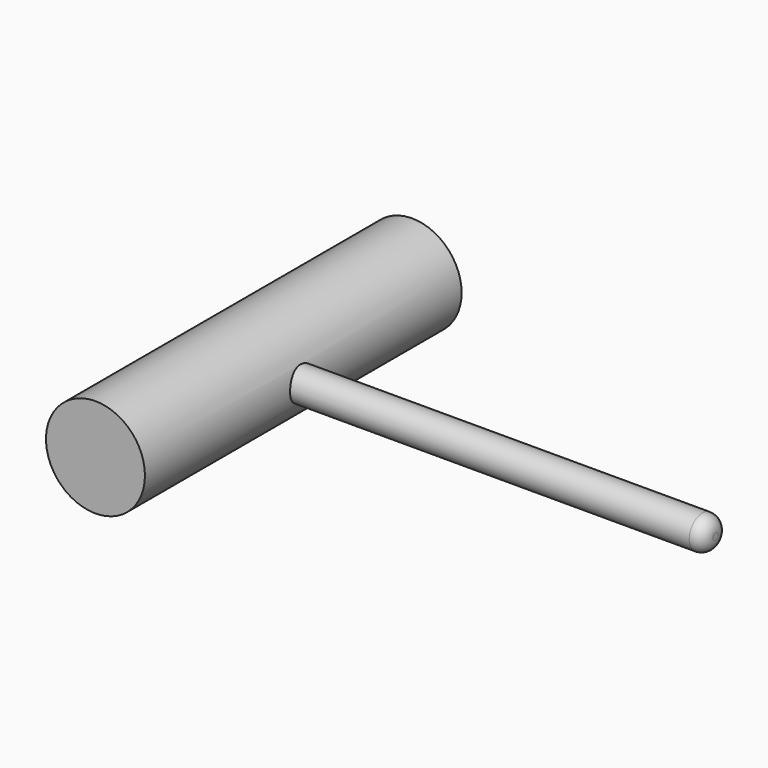
from build123d import *

# Parameters (mm, degrees)
F0_R     = 9.525
F1_DEPTH = 76.2
F2_R     = 3.175
F3_DEPTH = 88.9
F4_R     = 2.54


with BuildPart() as f1:
    # F0 (on Front) → F1 (new body)
    with BuildSketch(Plane.XZ):
        Circle(F0_R)
    extrude(amount=-F1_DEPTH)

    # F2 (on Right) → F3 (join)
    with BuildSketch(Plane.YZ):
        with Locations((38.1, 0)):
            Circle(F2_R)
    extrude(amount=F3_DEPTH)

    # F4
    f4_edges = [f1.edges().sort_by_distance(p)[0] for p in [
        (88.9, 34.925, 0),
    ]]
    fillet(f4_edges, radius=F4_R)


solid = f1.part
